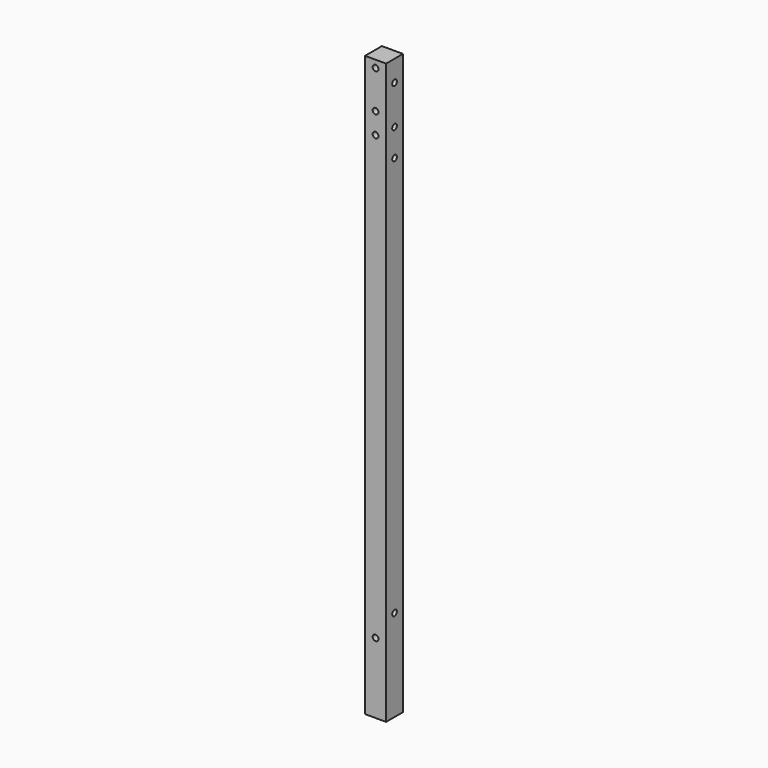
from build123d import *

# Parameters (mm, degrees)
F0_W     = 20
F0_H     = 550
F0_R     = 2.75
F1_DEPTH = 20
F2_R     = 2.75
F3_DEPTH = 20


with BuildPart() as f1:
    # F0 (on Front) → F1 (new body)
    with BuildSketch(Plane.XZ):
        with Locations((0, 275)):
            Rectangle(F0_W, F0_H)
        with Locations((0, 67)):
            Circle(F0_R, mode=Mode.SUBTRACT)
        with Locations((0, 487)):
            Circle(F0_R, mode=Mode.SUBTRACT)
        with Locations((0, 507)):
            Circle(F0_R, mode=Mode.SUBTRACT)
        with Locations((0, 543)):
            Circle(F0_R, mode=Mode.SUBTRACT)
    extrude(amount=F1_DEPTH)

    # F2 (on face) → F3 (cut)
    with BuildSketch(Plane.YZ.offset(10)):
        with Locations((-10, 530)):
            Circle(F2_R)
        with Locations((-10, 493)):
            Circle(F2_R)
        with Locations((-10, 467)):
            Circle(F2_R)
        with Locations((-10, 87)):
            Circle(F2_R)
    extrude(amount=-F3_DEPTH, mode=Mode.SUBTRACT)


solid = f1.part
